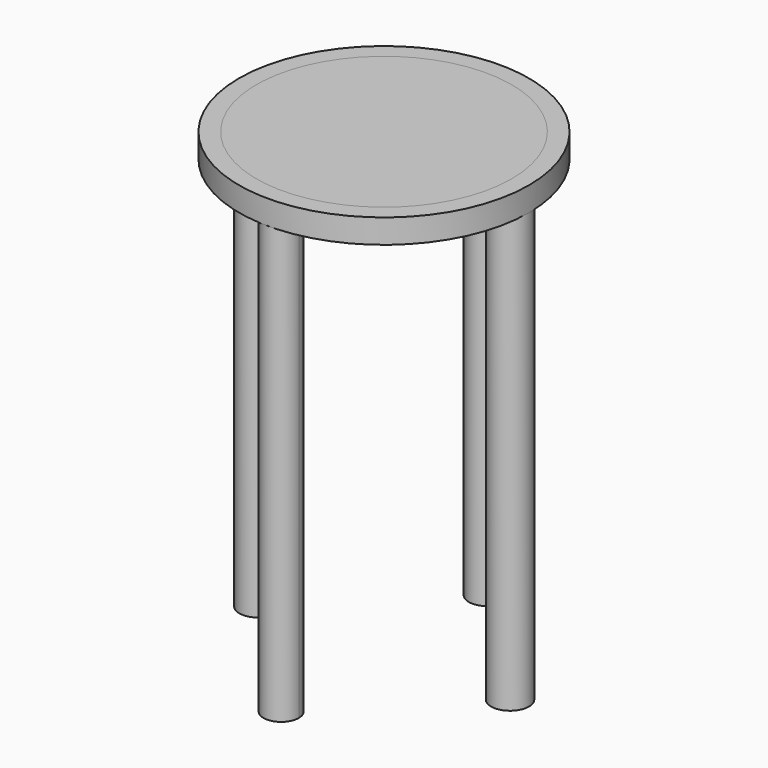
from build123d import *

# Parameters (mm, degrees)
F1_DEPTH = 25.4
F3_DEPTH = 457.2
F4_R     = 134.187483
F5_DEPTH = 25.4


with BuildPart() as f1:
    # F0 (on Top) → F1 (new body)
    with BuildSketch(Plane.XY):
        with BuildLine():
            Line((-152.4, 0), (152.4, 0))
            ThreePointArc((152.4, 0), (0, 152.4), (-152.4, 0))
        make_face()
        with BuildLine():
            ThreePointArc((-152.4, 0), (0, -152.4), (152.4, 0))
            Line((152.4, 0), (-152.4, 0))
        make_face()
    extrude(amount=F1_DEPTH)


with BuildPart() as f3:
    # F2 (on face) → F3 (new body)
    with BuildSketch(Plane(origin=(0, 0, 0), x_dir=(1, 0, 0), z_dir=(0, 0, -1))):
        with BuildLine():
            Line((-17.325427, -132.841849), (21.165663, -133.139476))
            ThreePointArc((21.165663, -133.139476), (2.067785, -113.893356), (-17.325427, -132.841849))
        make_face()
        with BuildLine():
            ThreePointArc((-17.325427, -132.841849), (1.770149, -152.385596), (21.165663, -133.139476))
            Line((21.165663, -133.139476), (-17.325427, -132.841849))
        make_face()
        with BuildLine():
            Line((-19.547921, 134.160678), (17.493443, 133.874261))
            ThreePointArc((17.493443, 133.874261), (-0.885134, 152.395497), (-19.547921, 134.160678))
        make_face()
        with BuildLine():
            ThreePointArc((-19.547921, 134.160678), (-1.171559, 115.353025), (17.493443, 133.874261))
            Line((17.493443, 133.874261), (-19.547921, 134.160678))
        make_face()
        with BuildLine():
            Line((112.517726, -0.098693), (152.399963, -0.098693))
            ThreePointArc((152.399963, -0.098693), (132.458845, 19.842426), (112.517726, -0.098693))
        make_face()
        with BuildLine():
            ThreePointArc((112.517726, -0.098693), (132.458845, -20.039811), (152.399963, -0.098693))
            Line((152.399963, -0.098693), (112.517726, -0.098693))
        make_face()
        with BuildLine():
            Line((-152.399326, -0.422475), (-112.517089, -0.422475))
            ThreePointArc((-112.517089, -0.422475), (-132.458208, 19.518644), (-152.399326, -0.422475))
        make_face()
        with BuildLine():
            ThreePointArc((-152.399326, -0.422475), (-132.458208, -20.363593), (-112.517089, -0.422475))
            Line((-112.517089, -0.422475), (-152.399326, -0.422475))
        make_face()
    extrude(amount=F3_DEPTH)


with BuildPart() as f5:
    # F4 (on face) → F5 (new body)
    with BuildSketch(Plane(origin=(0, 0, 0), x_dir=(1, 0, 0), z_dir=(0, 0, -1))):
        Circle(F4_R)
    extrude(amount=-F5_DEPTH)


solid = Compound([f1.part, f3.part, f5.part])
